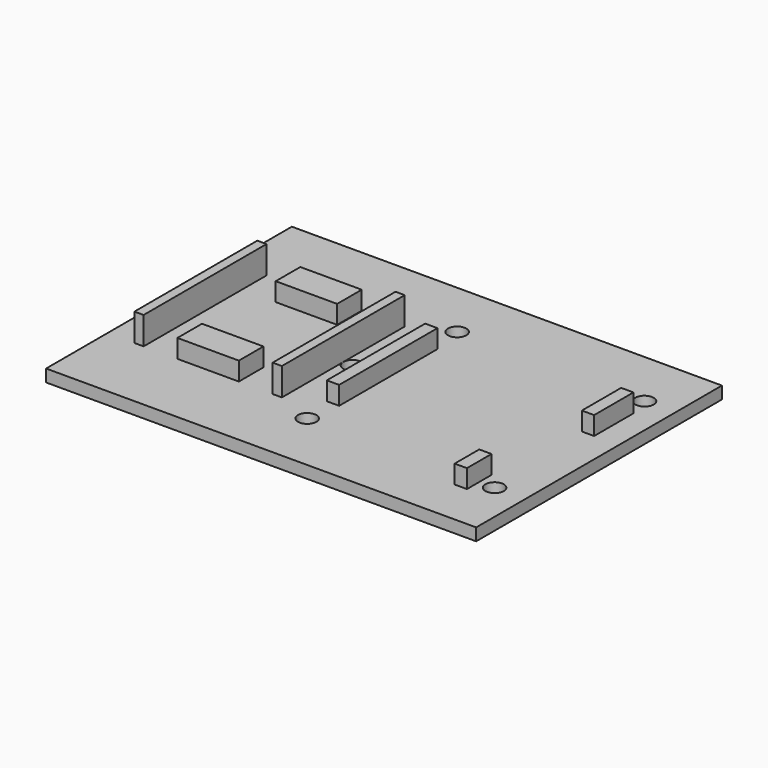
from build123d import *

# Parameters (mm, degrees)
F0_W           = 70
F0_H           = 50
F1_DEPTH       = 2
F3_W           = 1.5
F3_H           = 12.5
F4_DEPTH       = 4.5
F5_D           = 3
F5_DEPTH       = 10
F5_TIP         = 0.9012909285
F5_ON_F3_D     = 3
F5_ON_F3_DEPTH = 10
F5_ON_F3_TIP   = 0.9012909285
F3_W_2         = 10
F3_H_2         = 5
F3_W_3         = 2
F3_H_3         = 8
F3_H_4         = 20
F6_DEPTH       = 3


with BuildPart() as f1:
    # F0 (on Top) → F1 (new body)
    with BuildSketch(Plane.XY):
        Rectangle(F0_W, F0_H)
    extrude(amount=F1_DEPTH)

    # F3 (on face) → F4 (join)
    with BuildSketch(Plane.XY.offset(2)):
        with Locations((-29.875, 6.25)):
            Rectangle(F3_W, F3_H)
        with Locations((-29.875, -6.25)):
            Rectangle(F3_W, F3_H)
        with Locations((-7.375, 6.25)):
            Rectangle(F3_W, F3_H)
        with Locations((-7.375, -6.25)):
            Rectangle(F3_W, F3_H)
    extrude(amount=F4_DEPTH)

    # F5
    with Locations(Plane.XY.offset(2)):
        with Locations((-0.5, 15.5), (30, 15.5), (30, -15), (-0.5, -15)):
            Hole(F5_D / 2, depth=F5_DEPTH)
            with Locations((0, 0, -(F5_DEPTH + F5_TIP / 2))):  # 118° drill point
                Cone(0, F5_D / 2, F5_TIP, mode=Mode.SUBTRACT)

    # F5 on F3
    with Locations(Plane.XY.offset(2)):
        with Locations((-5.125, 0), (-32.125, 0)):
            Hole(F5_ON_F3_D / 2, depth=F5_ON_F3_DEPTH)
            with Locations((0, 0, -(F5_ON_F3_DEPTH + F5_ON_F3_TIP / 2))):  # 118° drill point
                Cone(0, F5_ON_F3_D / 2, F5_ON_F3_TIP, mode=Mode.SUBTRACT)

    # F3 (on face) → F6 (join)
    with BuildSketch(Plane.XY.offset(2)):
        with Locations((-18.625, 10)):
            Rectangle(F3_W_2, F3_H_2)
        with Locations((-18.625, -10)):
            Rectangle(F3_W_2, F3_H_2)
        with Locations((26.5, -15)):
            Rectangle(F3_W_3, F3_H_2)
        with Locations((30, 8)):
            Rectangle(F3_W_3, F3_H_3)
        with Locations((-0.5, 0.25)):
            Rectangle(F3_W_3, F3_H_4)
    extrude(amount=F6_DEPTH)


solid = f1.part
